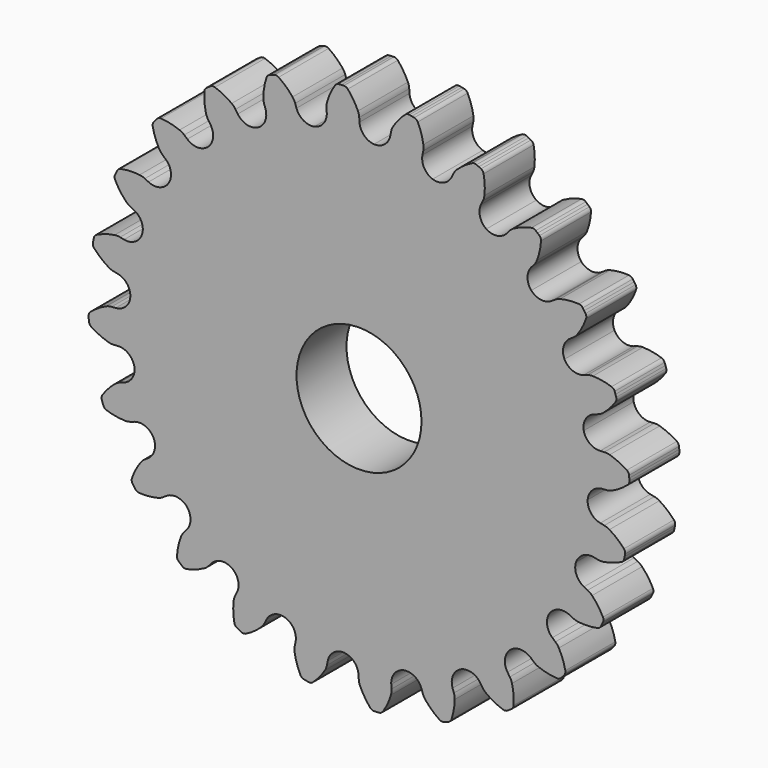
from build123d import *

# Parameters (mm, degrees)
F1_DEPTH = 6.35
F2_R     = 6.35
F3_DEPTH = 25.4


with BuildPart() as f1:
    # F0 (on Front) → F1 (new body)
    with BuildSketch(Plane.XZ):
        with BuildLine():
            ThreePointArc((0.022827, 25.139423), (-0.019597, 25.415079), (-0.109239, 25.679182))
            ThreePointArc((-0.109239, 25.679182), (-0.563203, 26.529377), (-1.140607, 27.301076))
            ThreePointArc((-1.140607, 27.301076), (-1.324113, 27.43416), (-1.547239, 27.474173))
            Line((-1.547239, 27.474173), (-1.799964, 27.462143))
            Line((-1.799964, 27.462143), (-2.052097, 27.441083))
            ThreePointArc((-2.052097, 27.441083), (-2.268091, 27.372289), (-2.432656, 27.216391))
            ThreePointArc((-2.432656, 27.216391), (-2.904394, 26.375928), (-3.243501, 25.473752))
            ThreePointArc((-3.243501, 25.473752), (-3.297904, 25.200208), (-3.303985, 24.921373))
            Line((-3.303985, 24.921373), (-3.276778, 24.506271))
            ThreePointArc((-3.276778, 24.506271), (-3.598149, 23.435182), (-4.542374, 22.836058))
            ThreePointArc((-4.542374, 22.836058), (-5.643999, 23.028238), (-6.350796, 23.894811))
            Line((-6.350796, 23.894811), (-6.484512, 24.288727))
            ThreePointArc((-6.484512, 24.288727), (-6.596836, 24.544009), (-6.751778, 24.775912))
            ThreePointArc((-6.751778, 24.775912), (-7.41032, 25.479643), (-8.167781, 26.075603))
            ThreePointArc((-8.167781, 26.075603), (-8.379478, 26.156658), (-8.605357, 26.137559))
            Line((-8.605357, 26.137559), (-8.846357, 26.060528))
            Line((-8.846357, 26.060528), (-9.084449, 25.974929))
            ThreePointArc((-9.084449, 25.974929), (-9.275277, 25.852575), (-9.393886, 25.659397))
            ThreePointArc((-9.393886, 25.659397), (-9.632022, 24.725477), (-9.726074, 23.766275))
            ThreePointArc((-9.726074, 23.766275), (-9.707824, 23.487971), (-9.641531, 23.217063))
            Line((-9.641531, 23.217063), (-9.507814, 22.823148))
            ThreePointArc((-9.507814, 22.823148), (-9.541017, 21.705378), (-10.298004, 20.882286))
            ThreePointArc((-10.298004, 20.882286), (-11.411831, 20.782795), (-12.31883, 21.436908))
            Line((-12.31883, 21.436908), (-12.549943, 21.782793))
            ThreePointArc((-12.549943, 21.782793), (-12.724511, 22.000306), (-12.934195, 22.184204))
            ThreePointArc((-12.934195, 22.184204), (-13.752436, 22.693513), (-14.638333, 23.073122))
            ThreePointArc((-14.638333, 23.073122), (-14.863796, 23.096623), (-15.077035, 23.019713))
            Line((-15.077035, 23.019713), (-15.289886, 22.882932))
            Line((-15.289886, 22.882932), (-15.49771, 22.738626))
            ThreePointArc((-15.49771, 22.738626), (-15.650369, 22.571052), (-15.714937, 22.353758))
            ThreePointArc((-15.714937, 22.353758), (-15.703243, 21.390026), (-15.54583, 20.439165))
            ThreePointArc((-15.54583, 20.439165), (-15.456172, 20.175068), (-15.322022, 19.930549))
            Line((-15.322022, 19.930549), (-15.090909, 19.584664))
            ThreePointArc((-15.090909, 19.584664), (-14.83368, 18.496389), (-15.351841, 17.505419))
            ThreePointArc((-15.351841, 17.505419), (-16.401966, 17.121039), (-17.447356, 17.518116))
            Line((-17.447356, 17.518116), (-17.760115, 17.792398))
            ThreePointArc((-17.760115, 17.792398), (-17.985032, 17.957318), (-18.235168, 18.08068))
            ThreePointArc((-18.235168, 18.08068), (-19.157347, 18.360858), (-20.111307, 18.498245))
            ThreePointArc((-20.111307, 18.498245), (-20.33517, 18.462591), (-20.521237, 18.333111))
            Line((-20.521237, 18.333111), (-20.691434, 18.145901))
            Line((-20.691434, 18.145901), (-20.854828, 17.952724))
            ThreePointArc((-20.854828, 17.952724), (-20.958914, 17.751348), (-20.965042, 17.524747))
            ThreePointArc((-20.965042, 17.524747), (-20.704314, 16.59688), (-20.306164, 15.719161))
            ThreePointArc((-20.306164, 15.719161), (-20.151208, 15.487268), (-19.958342, 15.285801))
            Line((-19.958342, 15.285801), (-19.645583, 15.011518))
            ThreePointArc((-19.645583, 15.011518), (-19.115452, 14.026901), (-19.359476, 12.935588))
            ThreePointArc((-19.359476, 12.935588), (-20.274333, 12.292513), (-21.386874, 12.405492))
            Line((-21.386874, 12.405492), (-21.759966, 12.589481))
            ThreePointArc((-21.759966, 12.589481), (-22.019903, 12.690568), (-22.293444, 12.744987))
            ThreePointArc((-22.293444, 12.744987), (-23.256716, 12.776941), (-24.213729, 12.662743))
            ThreePointArc((-24.213729, 12.662743), (-24.420736, 12.570364), (-24.566951, 12.397139))
            Line((-24.566951, 12.397139), (-24.682895, 12.172257))
            Line((-24.682895, 12.172257), (-24.790724, 11.943373))
            ThreePointArc((-24.790724, 11.943373), (-24.839143, 11.72192), (-24.786414, 11.501453))
            ThreePointArc((-24.786414, 11.501453), (-24.294421, 10.672685), (-23.682667, 9.927921))
            ThreePointArc((-23.682667, 9.927921), (-23.472972, 9.744035), (-23.234534, 9.599351))
            Line((-23.234534, 9.599351), (-22.861442, 9.415362))
            ThreePointArc((-22.861442, 9.415362), (-22.094538, 8.601502), (-22.047794, 7.484218))
            ThreePointArc((-22.047794, 7.484218), (-22.765038, 6.626272), (-23.868911, 6.447455))
            Line((-23.868911, 6.447455), (-24.27691, 6.528611))
            ThreePointArc((-24.27691, 6.528611), (-24.554154, 6.558977), (-24.832458, 6.540744))
            ThreePointArc((-24.832458, 6.540744), (-25.771178, 6.322296), (-26.666025, 5.964296))
            ThreePointArc((-26.666025, 5.964296), (-26.84207, 5.821488), (-26.938468, 5.616322))
            Line((-26.938468, 5.616322), (-26.992258, 5.369094))
            Line((-26.992258, 5.369094), (-27.037173, 5.120101))
            ThreePointArc((-27.037173, 5.120101), (-27.026626, 4.893662), (-26.918632, 4.694355))
            ThreePointArc((-26.918632, 4.694355), (-26.228902, 4.021163), (-25.445234, 3.460111))
            ThreePointArc((-25.445234, 3.460111), (-25.195092, 3.336763), (-24.927332, 3.258721))
            Line((-24.927332, 3.258721), (-24.519333, 3.177565))
            ThreePointArc((-24.519333, 3.177565), (-23.567918, 2.589926), (-23.233592, 1.52281))
            ThreePointArc((-23.233592, 1.52281), (-23.704344, 0.508462), (-24.724322, 0.050035))
            Line((-24.724322, 0.050035), (-25.139423, 0.022827))
            ThreePointArc((-25.139423, 0.022827), (-25.415079, -0.019597), (-25.679182, -0.109239))
            ThreePointArc((-25.679182, -0.109239), (-26.529377, -0.563203), (-27.301076, -1.140607))
            ThreePointArc((-27.301076, -1.140607), (-27.43416, -1.324113), (-27.474173, -1.547239))
            Line((-27.474173, -1.547239), (-27.462143, -1.799964))
            Line((-27.462143, -1.799964), (-27.441083, -2.052097))
            ThreePointArc((-27.441083, -2.052097), (-27.372289, -2.268091), (-27.216391, -2.432656))
            ThreePointArc((-27.216391, -2.432656), (-26.375928, -2.904394), (-25.473752, -3.243501))
            ThreePointArc((-25.473752, -3.243501), (-25.200208, -3.297904), (-24.921373, -3.303985))
            Line((-24.921373, -3.303985), (-24.506271, -3.276778))
            ThreePointArc((-24.506271, -3.276778), (-23.435182, -3.598149), (-22.836058, -4.542374))
            ThreePointArc((-22.836058, -4.542374), (-23.028238, -5.643999), (-23.894811, -6.350796))
            Line((-23.894811, -6.350796), (-24.288727, -6.484512))
            ThreePointArc((-24.288727, -6.484512), (-24.544009, -6.596836), (-24.775912, -6.751778))
            ThreePointArc((-24.775912, -6.751778), (-25.479643, -7.41032), (-26.075603, -8.167781))
            ThreePointArc((-26.075603, -8.167781), (-26.156658, -8.379478), (-26.137559, -8.605357))
            Line((-26.137559, -8.605357), (-26.060528, -8.846357))
            Line((-26.060528, -8.846357), (-25.974929, -9.084449))
            ThreePointArc((-25.974929, -9.084449), (-25.852575, -9.275277), (-25.659397, -9.393886))
            ThreePointArc((-25.659397, -9.393886), (-24.725477, -9.632022), (-23.766275, -9.726074))
            ThreePointArc((-23.766275, -9.726074), (-23.487971, -9.707824), (-23.217063, -9.641531))
            Line((-23.217063, -9.641531), (-22.823148, -9.507814))
            ThreePointArc((-22.823148, -9.507814), (-21.705378, -9.541017), (-20.882286, -10.298004))
            ThreePointArc((-20.882286, -10.298004), (-20.782795, -11.411831), (-21.436908, -12.31883))
            Line((-21.436908, -12.31883), (-21.782793, -12.549943))
            ThreePointArc((-21.782793, -12.549943), (-22.000306, -12.724511), (-22.184204, -12.934195))
            ThreePointArc((-22.184204, -12.934195), (-22.693513, -13.752436), (-23.073122, -14.638333))
            ThreePointArc((-23.073122, -14.638333), (-23.096623, -14.863796), (-23.019713, -15.077035))
            Line((-23.019713, -15.077035), (-22.882932, -15.289886))
            Line((-22.882932, -15.289886), (-22.738626, -15.49771))
            ThreePointArc((-22.738626, -15.49771), (-22.571052, -15.650369), (-22.353758, -15.714937))
            ThreePointArc((-22.353758, -15.714937), (-21.390026, -15.703243), (-20.439165, -15.54583))
            ThreePointArc((-20.439165, -15.54583), (-20.175068, -15.456172), (-19.930549, -15.322022))
            Line((-19.930549, -15.322022), (-19.584664, -15.090909))
            ThreePointArc((-19.584664, -15.090909), (-18.496389, -14.83368), (-17.505419, -15.351841))
            ThreePointArc((-17.505419, -15.351841), (-17.121039, -16.401966), (-17.518116, -17.447356))
            Line((-17.518116, -17.447356), (-17.792398, -17.760115))
            ThreePointArc((-17.792398, -17.760115), (-17.957318, -17.985032), (-18.08068, -18.235168))
            ThreePointArc((-18.08068, -18.235168), (-18.360858, -19.157347), (-18.498245, -20.111307))
            ThreePointArc((-18.498245, -20.111307), (-18.462591, -20.33517), (-18.333111, -20.521237))
            Line((-18.333111, -20.521237), (-18.145901, -20.691434))
            Line((-18.145901, -20.691434), (-17.952724, -20.854828))
            ThreePointArc((-17.952724, -20.854828), (-17.751348, -20.958914), (-17.524747, -20.965042))
            ThreePointArc((-17.524747, -20.965042), (-16.59688, -20.704314), (-15.719161, -20.306164))
            ThreePointArc((-15.719161, -20.306164), (-15.487268, -20.151208), (-15.285801, -19.958342))
            Line((-15.285801, -19.958342), (-15.011518, -19.645583))
            ThreePointArc((-15.011518, -19.645583), (-14.026901, -19.115452), (-12.935588, -19.359476))
            ThreePointArc((-12.935588, -19.359476), (-12.292513, -20.274333), (-12.405492, -21.386874))
            Line((-12.405492, -21.386874), (-12.589481, -21.759966))
            ThreePointArc((-12.589481, -21.759966), (-12.690568, -22.019903), (-12.744987, -22.293444))
            ThreePointArc((-12.744987, -22.293444), (-12.776941, -23.256716), (-12.662743, -24.213729))
            ThreePointArc((-12.662743, -24.213729), (-12.570364, -24.420736), (-12.397139, -24.566951))
            Line((-12.397139, -24.566951), (-12.172257, -24.682895))
            Line((-12.172257, -24.682895), (-11.943373, -24.790724))
            ThreePointArc((-11.943373, -24.790724), (-11.72192, -24.839143), (-11.501453, -24.786414))
            ThreePointArc((-11.501453, -24.786414), (-10.672685, -24.294421), (-9.927921, -23.682667))
            ThreePointArc((-9.927921, -23.682667), (-9.744035, -23.472972), (-9.599351, -23.234534))
            Line((-9.599351, -23.234534), (-9.415362, -22.861442))
            ThreePointArc((-9.415362, -22.861442), (-8.601502, -22.094538), (-7.484218, -22.047794))
            ThreePointArc((-7.484218, -22.047794), (-6.626272, -22.765038), (-6.447455, -23.868911))
            Line((-6.447455, -23.868911), (-6.528611, -24.27691))
            ThreePointArc((-6.528611, -24.27691), (-6.558977, -24.554154), (-6.540744, -24.832458))
            ThreePointArc((-6.540744, -24.832458), (-6.322296, -25.771178), (-5.964296, -26.666025))
            ThreePointArc((-5.964296, -26.666025), (-5.821488, -26.84207), (-5.616322, -26.938468))
            Line((-5.616322, -26.938468), (-5.369094, -26.992258))
            Line((-5.369094, -26.992258), (-5.120101, -27.037173))
            ThreePointArc((-5.120101, -27.037173), (-4.893662, -27.026626), (-4.694355, -26.918632))
            ThreePointArc((-4.694355, -26.918632), (-4.021163, -26.228902), (-3.460111, -25.445234))
            ThreePointArc((-3.460111, -25.445234), (-3.336763, -25.195092), (-3.258721, -24.927332))
            Line((-3.258721, -24.927332), (-3.177565, -24.519333))
            ThreePointArc((-3.177565, -24.519333), (-2.589926, -23.567918), (-1.52281, -23.233592))
            ThreePointArc((-1.52281, -23.233592), (-0.508462, -23.704344), (-0.050035, -24.724322))
            Line((-0.050035, -24.724322), (-0.022827, -25.139423))
            ThreePointArc((-0.022827, -25.139423), (0.019597, -25.415079), (0.109239, -25.679182))
            ThreePointArc((0.109239, -25.679182), (0.563203, -26.529377), (1.140607, -27.301076))
            ThreePointArc((1.140607, -27.301076), (1.324113, -27.43416), (1.547239, -27.474173))
            Line((1.547239, -27.474173), (1.799964, -27.462143))
            Line((1.799964, -27.462143), (2.052097, -27.441083))
            ThreePointArc((2.052097, -27.441083), (2.268091, -27.372289), (2.432656, -27.216391))
            ThreePointArc((2.432656, -27.216391), (2.904394, -26.375928), (3.243501, -25.473752))
            ThreePointArc((3.243501, -25.473752), (3.297904, -25.200208), (3.303985, -24.921373))
            Line((3.303985, -24.921373), (3.276778, -24.506271))
            ThreePointArc((3.276778, -24.506271), (3.598149, -23.435182), (4.542374, -22.836058))
            ThreePointArc((4.542374, -22.836058), (5.643999, -23.028238), (6.350796, -23.894811))
            Line((6.350796, -23.894811), (6.484512, -24.288727))
            ThreePointArc((6.484512, -24.288727), (6.596836, -24.544009), (6.751778, -24.775912))
            ThreePointArc((6.751778, -24.775912), (7.41032, -25.479643), (8.167781, -26.075603))
            ThreePointArc((8.167781, -26.075603), (8.379478, -26.156658), (8.605357, -26.137559))
            Line((8.605357, -26.137559), (8.846357, -26.060528))
            Line((8.846357, -26.060528), (9.084449, -25.974929))
            ThreePointArc((9.084449, -25.974929), (9.275277, -25.852575), (9.393886, -25.659397))
            ThreePointArc((9.393886, -25.659397), (9.632022, -24.725477), (9.726074, -23.766275))
            ThreePointArc((9.726074, -23.766275), (9.707824, -23.487971), (9.641531, -23.217063))
            Line((9.641531, -23.217063), (9.507814, -22.823148))
            ThreePointArc((9.507814, -22.823148), (9.541017, -21.705378), (10.298004, -20.882286))
            ThreePointArc((10.298004, -20.882286), (11.411831, -20.782795), (12.31883, -21.436908))
            Line((12.31883, -21.436908), (12.549943, -21.782793))
            ThreePointArc((12.549943, -21.782793), (12.724511, -22.000306), (12.934195, -22.184204))
            ThreePointArc((12.934195, -22.184204), (13.752436, -22.693513), (14.638333, -23.073122))
            ThreePointArc((14.638333, -23.073122), (14.863796, -23.096623), (15.077035, -23.019713))
            Line((15.077035, -23.019713), (15.289886, -22.882932))
            Line((15.289886, -22.882932), (15.49771, -22.738626))
            ThreePointArc((15.49771, -22.738626), (15.650369, -22.571052), (15.714937, -22.353758))
            ThreePointArc((15.714937, -22.353758), (15.703243, -21.390026), (15.54583, -20.439165))
            ThreePointArc((15.54583, -20.439165), (15.456172, -20.175068), (15.322022, -19.930549))
            Line((15.322022, -19.930549), (15.090909, -19.584664))
            ThreePointArc((15.090909, -19.584664), (14.83368, -18.496389), (15.351841, -17.505419))
            ThreePointArc((15.351841, -17.505419), (16.401966, -17.121039), (17.447356, -17.518116))
            Line((17.447356, -17.518116), (17.760115, -17.792398))
            ThreePointArc((17.760115, -17.792398), (17.985032, -17.957318), (18.235168, -18.08068))
            ThreePointArc((18.235168, -18.08068), (19.157347, -18.360858), (20.111307, -18.498245))
            ThreePointArc((20.111307, -18.498245), (20.33517, -18.462591), (20.521237, -18.333111))
            Line((20.521237, -18.333111), (20.691434, -18.145901))
            Line((20.691434, -18.145901), (20.854828, -17.952724))
            ThreePointArc((20.854828, -17.952724), (20.958914, -17.751348), (20.965042, -17.524747))
            ThreePointArc((20.965042, -17.524747), (20.704314, -16.59688), (20.306164, -15.719161))
            ThreePointArc((20.306164, -15.719161), (20.151208, -15.487268), (19.958342, -15.285801))
            Line((19.958342, -15.285801), (19.645583, -15.011518))
            ThreePointArc((19.645583, -15.011518), (19.115452, -14.026901), (19.359476, -12.935588))
            ThreePointArc((19.359476, -12.935588), (20.274333, -12.292513), (21.386874, -12.405492))
            Line((21.386874, -12.405492), (21.759966, -12.589481))
            ThreePointArc((21.759966, -12.589481), (22.019903, -12.690568), (22.293444, -12.744987))
            ThreePointArc((22.293444, -12.744987), (23.256716, -12.776941), (24.213729, -12.662743))
            ThreePointArc((24.213729, -12.662743), (24.420736, -12.570364), (24.566951, -12.397139))
            Line((24.566951, -12.397139), (24.682895, -12.172257))
            Line((24.682895, -12.172257), (24.790724, -11.943373))
            ThreePointArc((24.790724, -11.943373), (24.839143, -11.72192), (24.786414, -11.501453))
            ThreePointArc((24.786414, -11.501453), (24.294421, -10.672685), (23.682667, -9.927921))
            ThreePointArc((23.682667, -9.927921), (23.472972, -9.744035), (23.234534, -9.599351))
            Line((23.234534, -9.599351), (22.861442, -9.415362))
            ThreePointArc((22.861442, -9.415362), (22.094538, -8.601502), (22.047794, -7.484218))
            ThreePointArc((22.047794, -7.484218), (22.765038, -6.626272), (23.868911, -6.447455))
            Line((23.868911, -6.447455), (24.27691, -6.528611))
            ThreePointArc((24.27691, -6.528611), (24.554154, -6.558977), (24.832458, -6.540744))
            ThreePointArc((24.832458, -6.540744), (25.771178, -6.322296), (26.666025, -5.964296))
            ThreePointArc((26.666025, -5.964296), (26.84207, -5.821488), (26.938468, -5.616322))
            Line((26.938468, -5.616322), (26.992258, -5.369094))
            Line((26.992258, -5.369094), (27.037173, -5.120101))
            ThreePointArc((27.037173, -5.120101), (27.026626, -4.893662), (26.918632, -4.694355))
            ThreePointArc((26.918632, -4.694355), (26.228902, -4.021163), (25.445234, -3.460111))
            ThreePointArc((25.445234, -3.460111), (25.195092, -3.336763), (24.927332, -3.258721))
            Line((24.927332, -3.258721), (24.519333, -3.177565))
            ThreePointArc((24.519333, -3.177565), (23.567918, -2.589926), (23.233592, -1.52281))
            ThreePointArc((23.233592, -1.52281), (23.704344, -0.508462), (24.724322, -0.050035))
            Line((24.724322, -0.050035), (25.139423, -0.022827))
            ThreePointArc((25.139423, -0.022827), (25.415079, 0.019597), (25.679182, 0.109239))
            ThreePointArc((25.679182, 0.109239), (26.529377, 0.563203), (27.301076, 1.140607))
            ThreePointArc((27.301076, 1.140607), (27.43416, 1.324113), (27.474173, 1.547239))
            Line((27.474173, 1.547239), (27.462143, 1.799964))
            Line((27.462143, 1.799964), (27.441083, 2.052097))
            ThreePointArc((27.441083, 2.052097), (27.372289, 2.268091), (27.216391, 2.432656))
            ThreePointArc((27.216391, 2.432656), (26.375928, 2.904394), (25.473752, 3.243501))
            ThreePointArc((25.473752, 3.243501), (25.200208, 3.297904), (24.921373, 3.303985))
            Line((24.921373, 3.303985), (24.506271, 3.276778))
            ThreePointArc((24.506271, 3.276778), (23.435182, 3.598149), (22.836058, 4.542374))
            ThreePointArc((22.836058, 4.542374), (23.028238, 5.643999), (23.894811, 6.350796))
            Line((23.894811, 6.350796), (24.288727, 6.484512))
            ThreePointArc((24.288727, 6.484512), (24.544009, 6.596836), (24.775912, 6.751778))
            ThreePointArc((24.775912, 6.751778), (25.479643, 7.41032), (26.075603, 8.167781))
            ThreePointArc((26.075603, 8.167781), (26.156658, 8.379478), (26.137559, 8.605357))
            Line((26.137559, 8.605357), (26.060528, 8.846357))
            Line((26.060528, 8.846357), (25.974929, 9.084449))
            ThreePointArc((25.974929, 9.084449), (25.852575, 9.275277), (25.659397, 9.393886))
            ThreePointArc((25.659397, 9.393886), (24.725477, 9.632022), (23.766275, 9.726074))
            ThreePointArc((23.766275, 9.726074), (23.487971, 9.707824), (23.217063, 9.641531))
            Line((23.217063, 9.641531), (22.823148, 9.507814))
            ThreePointArc((22.823148, 9.507814), (21.705378, 9.541017), (20.882286, 10.298004))
            ThreePointArc((20.882286, 10.298004), (20.782795, 11.411831), (21.436908, 12.31883))
            Line((21.436908, 12.31883), (21.782793, 12.549943))
            ThreePointArc((21.782793, 12.549943), (22.000306, 12.724511), (22.184204, 12.934195))
            ThreePointArc((22.184204, 12.934195), (22.693513, 13.752436), (23.073122, 14.638333))
            ThreePointArc((23.073122, 14.638333), (23.096623, 14.863796), (23.019713, 15.077035))
            Line((23.019713, 15.077035), (22.882932, 15.289886))
            Line((22.882932, 15.289886), (22.738626, 15.49771))
            ThreePointArc((22.738626, 15.49771), (22.571052, 15.650369), (22.353758, 15.714937))
            ThreePointArc((22.353758, 15.714937), (21.390026, 15.703243), (20.439165, 15.54583))
            ThreePointArc((20.439165, 15.54583), (20.175068, 15.456172), (19.930549, 15.322022))
            Line((19.930549, 15.322022), (19.584664, 15.090909))
            ThreePointArc((19.584664, 15.090909), (18.496389, 14.83368), (17.505419, 15.351841))
            ThreePointArc((17.505419, 15.351841), (17.121039, 16.401966), (17.518116, 17.447356))
            Line((17.518116, 17.447356), (17.792398, 17.760115))
            ThreePointArc((17.792398, 17.760115), (17.957318, 17.985032), (18.08068, 18.235168))
            ThreePointArc((18.08068, 18.235168), (18.360858, 19.157347), (18.498245, 20.111307))
            ThreePointArc((18.498245, 20.111307), (18.462591, 20.33517), (18.333111, 20.521237))
            Line((18.333111, 20.521237), (18.145901, 20.691434))
            Line((18.145901, 20.691434), (17.952724, 20.854828))
            ThreePointArc((17.952724, 20.854828), (17.751348, 20.958914), (17.524747, 20.965042))
            ThreePointArc((17.524747, 20.965042), (16.59688, 20.704314), (15.719161, 20.306164))
            ThreePointArc((15.719161, 20.306164), (15.487268, 20.151208), (15.285801, 19.958342))
            Line((15.285801, 19.958342), (15.011518, 19.645583))
            ThreePointArc((15.011518, 19.645583), (14.026901, 19.115452), (12.935588, 19.359476))
            ThreePointArc((12.935588, 19.359476), (12.292513, 20.274333), (12.405492, 21.386874))
            Line((12.405492, 21.386874), (12.589481, 21.759966))
            ThreePointArc((12.589481, 21.759966), (12.690568, 22.019903), (12.744987, 22.293444))
            ThreePointArc((12.744987, 22.293444), (12.776941, 23.256716), (12.662743, 24.213729))
            ThreePointArc((12.662743, 24.213729), (12.570364, 24.420736), (12.397139, 24.566951))
            Line((12.397139, 24.566951), (12.172257, 24.682895))
            Line((12.172257, 24.682895), (11.943373, 24.790724))
            ThreePointArc((11.943373, 24.790724), (11.72192, 24.839143), (11.501453, 24.786414))
            ThreePointArc((11.501453, 24.786414), (10.672685, 24.294421), (9.927921, 23.682667))
            ThreePointArc((9.927921, 23.682667), (9.744035, 23.472972), (9.599351, 23.234534))
            Line((9.599351, 23.234534), (9.415362, 22.861442))
            ThreePointArc((9.415362, 22.861442), (8.601502, 22.094538), (7.484218, 22.047794))
            ThreePointArc((7.484218, 22.047794), (6.626272, 22.765038), (6.447455, 23.868911))
            Line((6.447455, 23.868911), (6.528611, 24.27691))
            ThreePointArc((6.528611, 24.27691), (6.558977, 24.554154), (6.540744, 24.832458))
            ThreePointArc((6.540744, 24.832458), (6.322296, 25.771178), (5.964296, 26.666025))
            ThreePointArc((5.964296, 26.666025), (5.821488, 26.84207), (5.616322, 26.938468))
            Line((5.616322, 26.938468), (5.369094, 26.992258))
            Line((5.369094, 26.992258), (5.120101, 27.037173))
            ThreePointArc((5.120101, 27.037173), (4.893662, 27.026626), (4.694355, 26.918632))
            ThreePointArc((4.694355, 26.918632), (4.021163, 26.228902), (3.460111, 25.445234))
            ThreePointArc((3.460111, 25.445234), (3.336763, 25.195092), (3.258721, 24.927332))
            Line((3.258721, 24.927332), (3.177565, 24.519333))
            ThreePointArc((3.177565, 24.519333), (2.589926, 23.567918), (1.52281, 23.233592))
            ThreePointArc((1.52281, 23.233592), (0.508462, 23.704344), (0.050035, 24.724322))
            Line((0.050035, 24.724322), (0.022827, 25.139423))
        make_face()
    extrude(amount=F1_DEPTH)

    # F2 (on face) → F3 (cut)
    with BuildSketch(Plane.XZ.offset(6.35)):
        Circle(F2_R)
    extrude(amount=-F3_DEPTH, mode=Mode.SUBTRACT)


solid = f1.part
